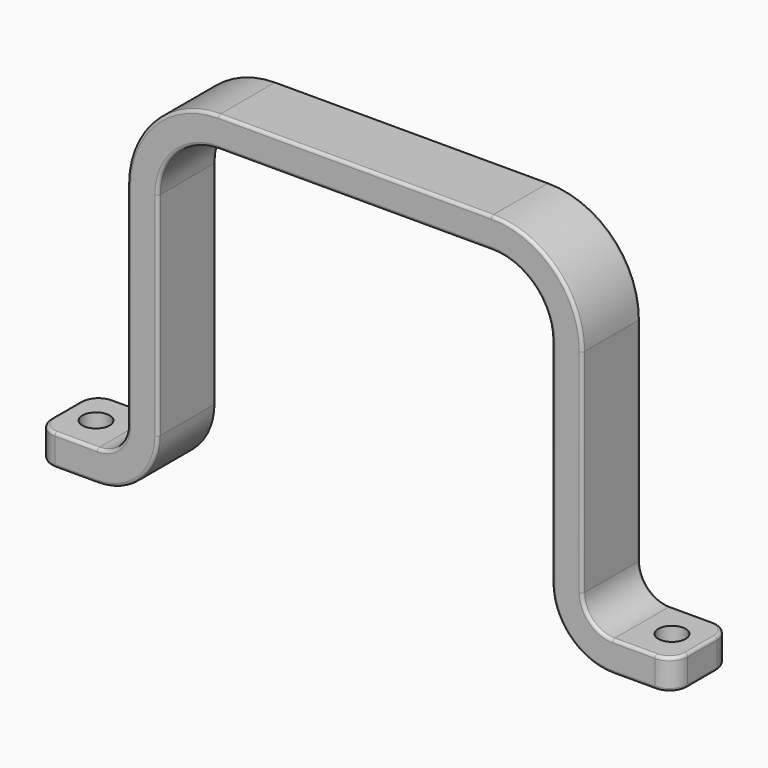
from build123d import *

# Parameters (mm, degrees)
F1_DEPTH = 6
F2_R     = 5
F3_R     = 10
F4_R     = 10
F5_R     = 15
F6_R     = 2.25
F7_DEPTH = 5.096321
F8_R     = 3
F9_R     = 0.5


with BuildPart() as f1:
    # F0 (on Front) → F1 (new body, symmetric)
    with BuildSketch(Plane.XZ):
        Polygon((-52.5, 5.095321), (-52.5, 0), (-32.5, 0), (-32.5, 55), (32.5, 55), (32.5, 0), (52.5, 0), (52.5, 5), (37.5, 5), (37.5, 60), (-37.5, 60), (-37.5, 5.095321), align=None)
    extrude(amount=F1_DEPTH, both=True)

    # F2
    f2_edges = [f1.edges().sort_by_distance(p)[0] for p in [
        (37.5, 0, 5),
        (-37.5, 0, 5.095321),
    ]]
    fillet(f2_edges, radius=F2_R)

    # F3
    f3_edges = [f1.edges().sort_by_distance(p)[0] for p in [
        (-32.5, 0, 0),
        (32.5, 0, 0),
    ]]
    fillet(f3_edges, radius=F3_R)

    # F4
    f4_edges = [f1.edges().sort_by_distance(p)[0] for p in [
        (-32.5, 0, 55),
        (32.5, 0, 55),
    ]]
    fillet(f4_edges, radius=F4_R)

    # F5
    f5_edges = [f1.edges().sort_by_distance(p)[0] for p in [
        (-37.5, 0, 60),
        (37.5, 0, 60),
    ]]
    fillet(f5_edges, radius=F5_R)

    # F6 (on face) → F7 (cut, through all)
    with BuildSketch(Plane.XY.offset(5.095321)):
        with Locations((-47.5, 0)):
            Circle(F6_R)
        with Locations((47.5, 0)):
            Circle(F6_R)
    extrude(amount=-F7_DEPTH, mode=Mode.SUBTRACT)

    # F8
    f8_edges = [f1.edges().sort_by_distance(p)[0] for p in [
        (-52.5, -6, 2.54766),
        (-52.5, 6, 2.54766),
        (52.5, 6, 2.5),
        (52.5, -6, 2.5),
    ]]
    fillet(f8_edges, radius=F8_R)

    # F9
    f9_edges = [f1.edges().sort_by_distance(p)[0] for p in [
        (0, -6, 60),
        (0, -6, 55),
    ]]
    fillet(f9_edges, radius=F9_R)


solid = f1.part
